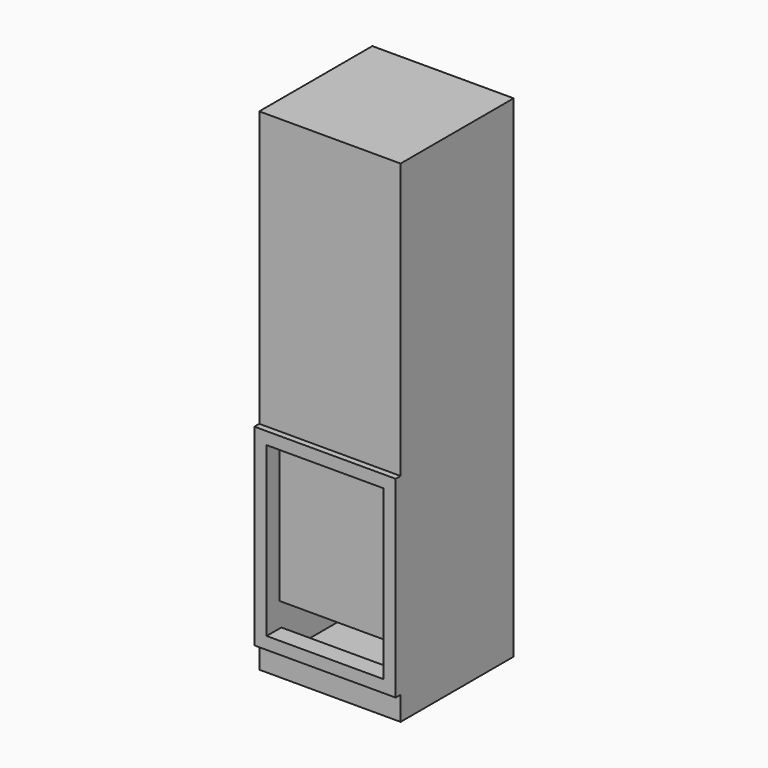
from build123d import *

# Parameters (mm, degrees)
F0_W     = 584.2
F0_H     = 2032
F1_DEPTH = 584.2
F2_W     = 584.2
F2_H     = 796.1330711842
F3_DEPTH = 25.4
F4_T     = -50.8
F5_W     = 458.8919430971
F5_H     = 20.0611352921
F6_DEPTH = 581.66


with BuildPart() as f1:
    # F0 (on Front) → F1 (new body)
    with BuildSketch(Plane.XZ):
        with Locations((1.9479468465, 645.7104609217)):
            Rectangle(F0_W, F0_H)
    extrude(amount=F1_DEPTH)

    # F2 (on face) → F3 (join)
    with BuildSketch(Plane.XZ.offset(584.2)):
        with Locations((1.9479468465, 126.6288906336)):
            Rectangle(F2_W, F2_H)
    extrude(amount=F3_DEPTH)

    # F4
    f4_openings = [f1.faces().sort_by_distance(p)[0] for p in [
        (1.947947, -609.6, 126.628891),
    ]]
    offset(amount=F4_T, openings=f4_openings, kind=Kind.INTERSECTION)

    # F5 (on face) → F6 (join)
    with BuildSketch(Plane(origin=(0, 0, 473.8954262257), x_dir=(1, 0, 0), z_dir=(0, 0, -1))):
        with Locations((4.084430635, 551.7954230309)):
            Rectangle(F5_W, F5_H)
    extrude(amount=F6_DEPTH)


solid = f1.part
